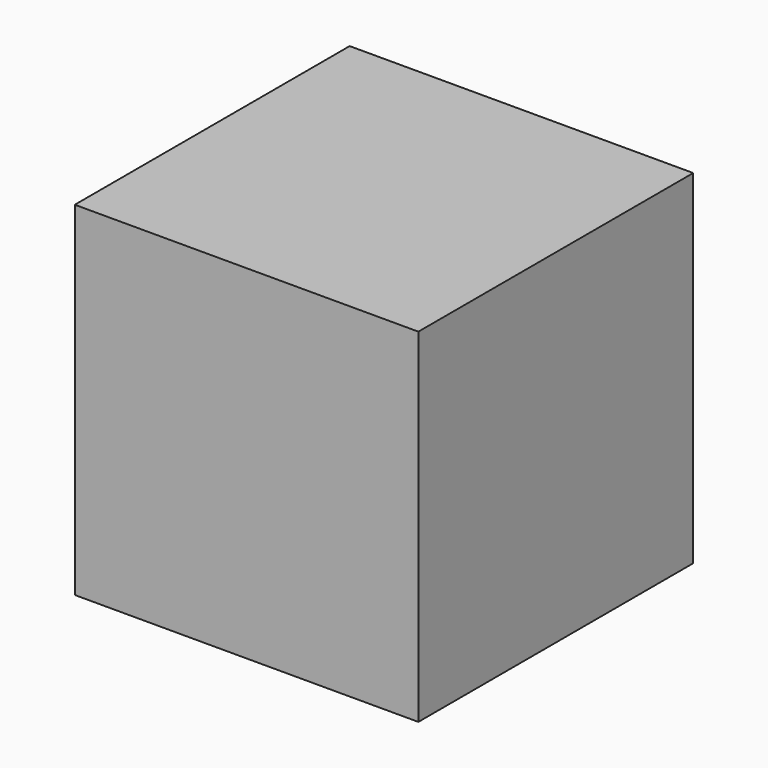
from build123d import *

# Parameters (mm, degrees)
BOX_W     = 100
BOX_H     = 100
BOX_DEPTH = 100


with BuildPart() as part:
    # Box → Box (new body)
    with BuildSketch(Plane.XY):
        with Locations((50, 50)):
            Rectangle(BOX_W, BOX_H)
    extrude(amount=BOX_DEPTH)


solid = part.part
